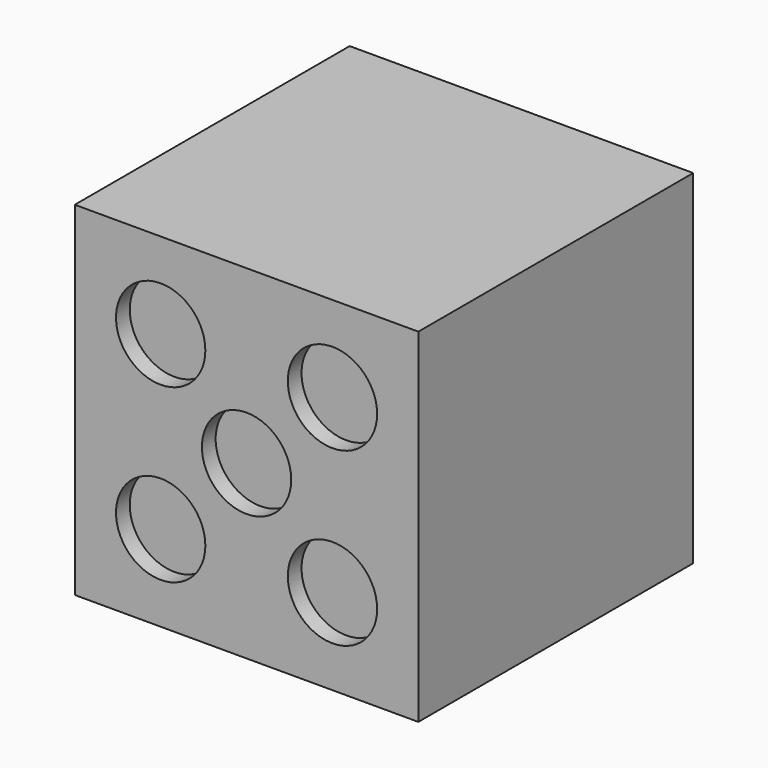
from build123d import *

# Parameters (mm, degrees)
F0_W     = 20
F0_H     = 20
F1_DEPTH = 20
F2_R     = 2.6
F3_DEPTH = 1


with BuildPart() as f1:
    # F0 (on Front) → F1 (new body)
    with BuildSketch(Plane.XZ):
        with Locations((-10, 10)):
            Rectangle(F0_W, F0_H)
    extrude(amount=F1_DEPTH)

    # F2 (on face) → F3 (cut)
    with BuildSketch(Plane.XZ.offset(20)):
        with Locations((-10, 10)):
            Circle(F2_R)
        with Locations((-15, 15)):
            Circle(F2_R)
        with Locations((-5, 15)):
            Circle(F2_R)
        with Locations((-15, 5)):
            Circle(F2_R)
        with Locations((-5, 5)):
            Circle(F2_R)
    extrude(amount=-F3_DEPTH, mode=Mode.SUBTRACT)


solid = f1.part
